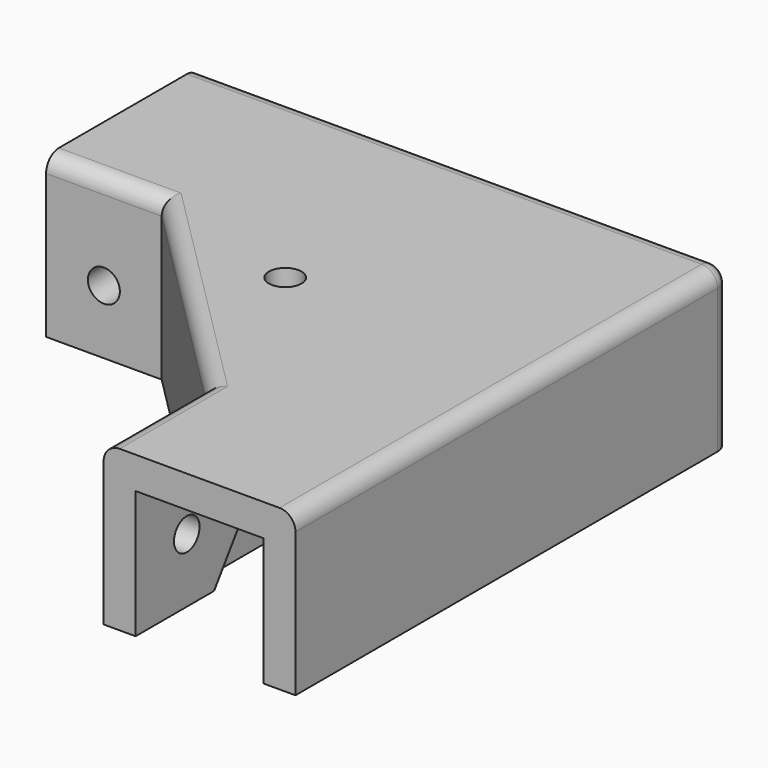
from build123d import *

# Parameters (mm, degrees)
F0_R      = 2.55
F1_DEPTH  = 5
F2_DEPTH  = 25
F3_R      = 2.5
F5_DEPTH  = 3
F6_R      = 0.75
F8_D      = 5
F8_DEPTH  = 6
F10_D     = 5
F10_DEPTH = 6


with BuildPart() as f1:
    # F0 (on Top) → F1 (new body)
    with BuildSketch(Plane.XY):
        Polygon((-58, -25), (-83, -25), (-83, -30), (-64.919747, -30), (-30, -64.919747), (-30, -85), (-25, -85), (-25, -55), (-32.5, -55), (-58, -29.5), align=None)
        Polygon((0, 0), (-83, 0), (-83, -5), (-5, -5), (-5, -85), (0, -85), align=None)
        Polygon((-5, -5), (-83, -5), (-83, -25), (-58, -25), (-58, -29.5), (-32.5, -55), (-25, -55), (-25, -85), (-5, -85), align=None)
        with Locations((-40, -37)):
            Circle(F0_R, mode=Mode.SUBTRACT)
    extrude(amount=-F1_DEPTH)

    # F0 (on Top) → F2 (join)
    with BuildSketch(Plane.XY):
        Polygon((-58, -25), (-83, -25), (-83, -30), (-64.919747, -30), (-30, -64.919747), (-30, -85), (-25, -85), (-25, -55), (-32.5, -55), (-58, -29.5), align=None)
        Polygon((0, 0), (-83, 0), (-83, -5), (-5, -5), (-5, -85), (0, -85), align=None)
    extrude(amount=-F2_DEPTH)

    # F3
    f3_edges = [f1.edges().sort_by_distance(p)[0] for p in [
        (-73.959874, -30, 0),
        (-47.459874, -47.459874, 0),
        (-30, -74.959874, 0),
        (0, -42.5, 0),
        (-41.5, 0, 0),
        (0, 0, -12.5),
    ]]
    fillet(f3_edges, radius=F3_R)

    # F4 (on face) → F5 (cut)
    with BuildSketch(Plane.YZ.offset(-25)):
        Polygon((-55, -25), (-55, -5), (-69, -25), align=None)
    extrude(amount=-F5_DEPTH, mode=Mode.SUBTRACT)

    # F6
    f6_edges = [f1.edges().sort_by_distance(p)[0] for p in [
        (-58, -25, -15),
        (-28, -55, -15),
        (-25, -62, -15),
        (-5, -5, -15),
    ]]
    fillet(f6_edges, radius=F6_R)

    # F8
    with Locations(Plane(origin=(-30, 0, 0), x_dir=(0, -1, 0), z_dir=(-1, 0, 0))):
        with Locations((75, -15)):
            Hole(F8_D / 2, depth=F8_DEPTH)

    # F10
    with Locations(Plane.XZ.offset(30)):
        with Locations((-73.959874, -15)):
            Hole(F10_D / 2, depth=F10_DEPTH)


solid = f1.part
